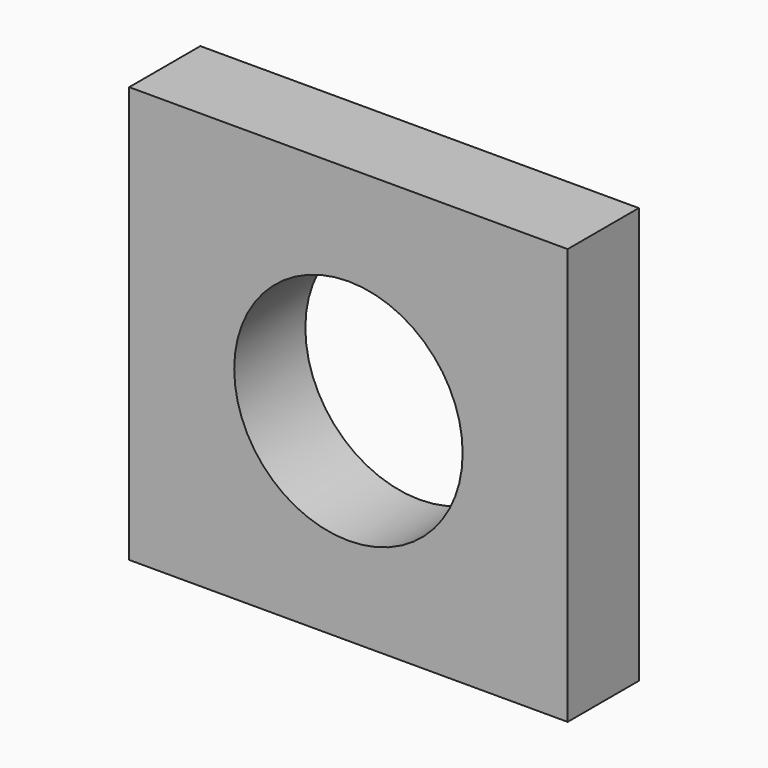
from build123d import *

# Parameters (mm, degrees)
F0_W     = 125.265508
F0_H     = 118.915596
F0_R     = 32.629122
F1_DEPTH = 25.4


with BuildPart() as f1:
    # F0 (on Front) → F1 (new body)
    with BuildSketch(Plane.XZ):
        Rectangle(F0_W, F0_H)
        with Locations((0, -1.629049)):
            Circle(F0_R, mode=Mode.SUBTRACT)
    extrude(amount=-F1_DEPTH)


solid = f1.part
